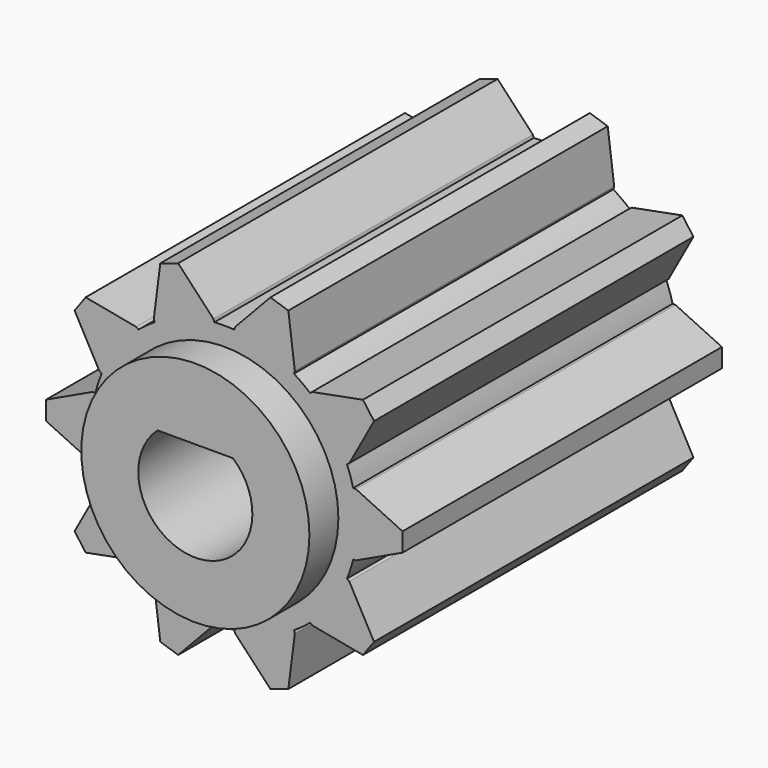
from build123d import *

# Parameters (mm, degrees)
F1_DEPTH      = 9
F1_DEPTH_BACK = 5
F2_R          = 4
F3_DEPTH      = 1.27
F5_DEPTH      = 25.2476


with BuildPart() as f1:
    # F0 (on Front) → F1 (new body, two sides)
    with BuildSketch(Plane.XZ) as f1_sk:
        with BuildLine():
            ThreePointArc((4.518019, -1.1), (4.616887, -0.553945), (4.65, 0))
            ThreePointArc((4.65, 0), (4.616887, 0.553945), (4.518019, 1.1))
            ThreePointArc((4.518019, 1.1), (4.422413, 1.436929), (4.301718, 1.765707))
            ThreePointArc((4.301718, 1.765707), (3.761929, 2.733201), (3.008591, 3.545544))
            ThreePointArc((3.008591, 3.545544), (2.733201, 3.761929), (2.442307, 3.956973))
            ThreePointArc((2.442307, 3.956973), (1.436929, 4.422413), (0.349983, 4.636811))
            ThreePointArc((0.349983, 4.636811), (0, 4.65), (-0.349983, 4.636811))
            ThreePointArc((-0.349983, 4.636811), (-1.436929, 4.422413), (-2.442307, 3.956973))
            ThreePointArc((-2.442307, 3.956973), (-2.733201, 3.761929), (-3.008591, 3.545544))
            ThreePointArc((-3.008591, 3.545544), (-3.761929, 2.733201), (-4.301718, 1.765707))
            ThreePointArc((-4.301718, 1.765707), (-4.422413, 1.436929), (-4.518019, 1.1))
            ThreePointArc((-4.518019, 1.1), (-4.65, 0), (-4.518019, -1.1))
            ThreePointArc((-4.518019, -1.1), (-4.422413, -1.436929), (-4.301718, -1.765707))
            ThreePointArc((-4.301718, -1.765707), (-3.761929, -2.733201), (-3.008591, -3.545544))
            ThreePointArc((-3.008591, -3.545544), (-2.733201, -3.761929), (-2.442307, -3.956973))
            ThreePointArc((-2.442307, -3.956973), (-1.436929, -4.422413), (-0.349983, -4.636811))
            ThreePointArc((-0.349983, -4.636811), (0, -4.65), (0.349983, -4.636811))
            ThreePointArc((0.349983, -4.636811), (1.436929, -4.422413), (2.442307, -3.956973))
            ThreePointArc((2.442307, -3.956973), (2.733201, -3.761929), (3.008591, -3.545544))
            ThreePointArc((3.008591, -3.545544), (3.761929, -2.733201), (4.301718, -1.765707))
            ThreePointArc((4.301718, -1.765707), (4.422413, -1.436929), (4.518019, -1.1))
        make_face()
        with BuildLine():
            ThreePointArc((4.518019, 1.1), (4.616887, 0.553945), (4.65, 0))
            ThreePointArc((4.65, 0), (4.616887, -0.553945), (4.518019, -1.1))
            Line((4.518019, -1.1), (4.618019, -1.1))
            Line((4.618019, -1.1), (6.25, -0.329923))
            Line((6.25, -0.329923), (6.25, 0))
            Line((6.25, 0), (6.25, 0.329923))
            Line((6.25, 0.329923), (4.618019, 1.1))
            Line((4.618019, 1.1), (4.518019, 1.1))
        make_face()
        with BuildLine():
            ThreePointArc((3.008591, 3.545544), (3.761929, 2.733201), (4.301718, 1.765707))
            Line((4.301718, 1.765707), (4.38262, 1.824485))
            Line((4.38262, 1.824485), (5.25028, 3.406744))
            Line((5.25028, 3.406744), (5.056356, 3.673658))
            Line((5.056356, 3.673658), (4.862432, 3.940572))
            Line((4.862432, 3.940572), (3.089492, 3.604322))
            Line((3.089492, 3.604322), (3.008591, 3.545544))
        make_face()
        with BuildLine():
            Line((4.38262, -1.824485), (4.301718, -1.765707))
            ThreePointArc((4.301718, -1.765707), (3.761929, -2.733201), (3.008591, -3.545544))
            Line((3.008591, -3.545544), (3.089492, -3.604322))
            Line((3.089492, -3.604322), (4.862432, -3.940572))
            Line((4.862432, -3.940572), (5.056356, -3.673658))
            Line((5.056356, -3.673658), (5.25028, -3.406744))
            Line((5.25028, -3.406744), (4.38262, -1.824485))
        make_face()
        with BuildLine():
            ThreePointArc((0.349983, 4.636811), (1.436929, 4.422413), (2.442307, 3.956973))
            Line((2.442307, 3.956973), (2.473209, 4.052079))
            Line((2.473209, 4.052079), (2.245132, 5.842151))
            Line((2.245132, 5.842151), (1.931356, 5.944103))
            Line((1.931356, 5.944103), (1.61758, 6.046055))
            Line((1.61758, 6.046055), (0.380884, 4.731916))
            Line((0.380884, 4.731916), (0.349983, 4.636811))
        make_face()
        with BuildLine():
            Line((2.473209, -4.052079), (2.442307, -3.956973))
            ThreePointArc((2.442307, -3.956973), (1.436929, -4.422413), (0.349983, -4.636811))
            Line((0.349983, -4.636811), (0.380884, -4.731916))
            Line((0.380884, -4.731916), (1.61758, -6.046055))
            Line((1.61758, -6.046055), (1.931356, -5.944103))
            Line((1.931356, -5.944103), (2.245132, -5.842151))
            Line((2.245132, -5.842151), (2.473209, -4.052079))
        make_face()
        with BuildLine():
            ThreePointArc((-2.442307, 3.956973), (-1.436929, 4.422413), (-0.349983, 4.636811))
            Line((-0.349983, 4.636811), (-0.380884, 4.731916))
            Line((-0.380884, 4.731916), (-1.61758, 6.046055))
            Line((-1.61758, 6.046055), (-1.931356, 5.944103))
            Line((-1.931356, 5.944103), (-2.245132, 5.842151))
            Line((-2.245132, 5.842151), (-2.473209, 4.052079))
            Line((-2.473209, 4.052079), (-2.442307, 3.956973))
        make_face()
        with BuildLine():
            Line((-0.380884, -4.731916), (-0.349983, -4.636811))
            ThreePointArc((-0.349983, -4.636811), (-1.436929, -4.422413), (-2.442307, -3.956973))
            Line((-2.442307, -3.956973), (-2.473209, -4.052079))
            Line((-2.473209, -4.052079), (-2.245132, -5.842151))
            Line((-2.245132, -5.842151), (-1.931356, -5.944103))
            Line((-1.931356, -5.944103), (-1.61758, -6.046055))
            Line((-1.61758, -6.046055), (-0.380884, -4.731916))
        make_face()
        with BuildLine():
            ThreePointArc((-4.301718, 1.765707), (-3.761929, 2.733201), (-3.008591, 3.545544))
            Line((-3.008591, 3.545544), (-3.089492, 3.604322))
            Line((-3.089492, 3.604322), (-4.862432, 3.940572))
            Line((-4.862432, 3.940572), (-5.056356, 3.673658))
            Line((-5.056356, 3.673658), (-5.25028, 3.406744))
            Line((-5.25028, 3.406744), (-4.38262, 1.824485))
            Line((-4.38262, 1.824485), (-4.301718, 1.765707))
        make_face()
        with BuildLine():
            Line((-3.089492, -3.604322), (-3.008591, -3.545544))
            ThreePointArc((-3.008591, -3.545544), (-3.761929, -2.733201), (-4.301718, -1.765707))
            Line((-4.301718, -1.765707), (-4.38262, -1.824485))
            Line((-4.38262, -1.824485), (-5.25028, -3.406744))
            Line((-5.25028, -3.406744), (-5.056356, -3.673658))
            Line((-5.056356, -3.673658), (-4.862432, -3.940572))
            Line((-4.862432, -3.940572), (-3.089492, -3.604322))
        make_face()
        with BuildLine():
            ThreePointArc((-4.518019, -1.1), (-4.65, 0), (-4.518019, 1.1))
            Line((-4.518019, 1.1), (-4.618019, 1.1))
            Line((-4.618019, 1.1), (-6.25, 0.329923))
            Line((-6.25, 0.329923), (-6.25, 0))
            Line((-6.25, 0), (-6.25, -0.329923))
            Line((-6.25, -0.329923), (-4.618019, -1.1))
            Line((-4.618019, -1.1), (-4.518019, -1.1))
        make_face()
    extrude(amount=F1_DEPTH)
    extrude(f1_sk.sketch, amount=-F1_DEPTH_BACK)

    # F2 (on face) → F3 (join)
    with BuildSketch(Plane.XZ.offset(9)):
        Circle(F2_R)
    extrude(amount=F3_DEPTH)

    # F4 (on face) → F5 (cut)
    with BuildSketch(Plane.XZ.offset(10.27)):
        with BuildLine():
            Line((1.322876, 1.5), (-1.322876, 1.5))
            ThreePointArc((-1.322876, 1.5), (0, -2), (1.322876, 1.5))
        make_face()
    extrude(amount=-F5_DEPTH, mode=Mode.SUBTRACT)


solid = f1.part
